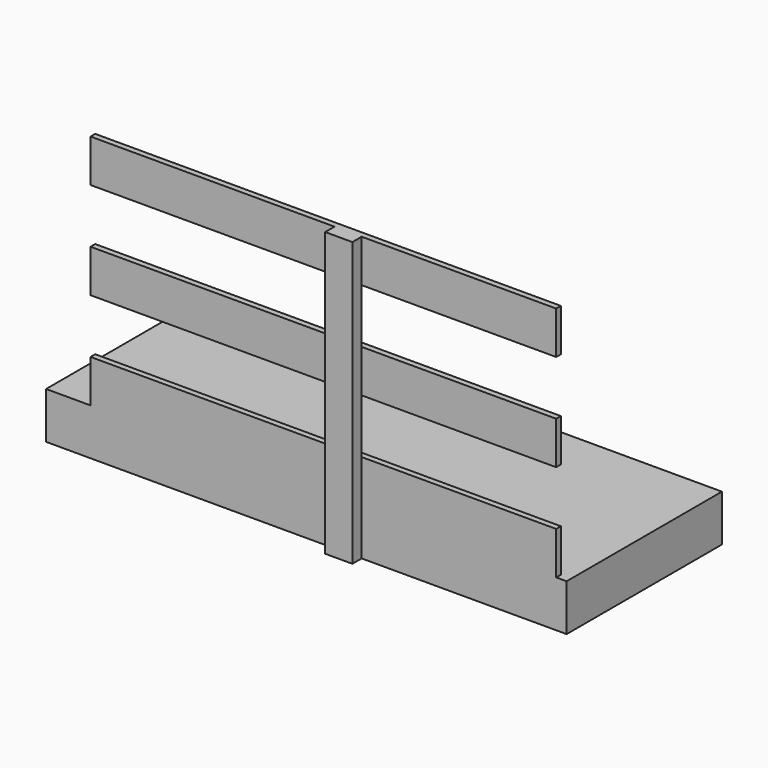
from build123d import *

# Parameters (mm, degrees)
F0_W     = 88.9
F0_H     = 927.1
F1_DEPTH = 38.1
F2_W     = 1524
F2_H     = 139.7
F3_DEPTH = 19.05
F4_W     = 1703.7423849106
F4_H     = 635.3735253215
F5_DEPTH = 152.4


with BuildPart() as f1:
    # F0 (on Front) → F1 (new body)
    with BuildSketch(Plane.XZ):
        with Locations((44.45, 463.55)):
            Rectangle(F0_W, F0_H)
    extrude(amount=F1_DEPTH)

    # F2 (on face) → F3 (join)
    with BuildSketch(Plane(origin=(0, 0, 0), x_dir=(-1, 0, 0), z_dir=(0, 1, 0))):
        with Locations((36.5120689366, 222.25)):
            Rectangle(F2_W, F2_H)
        with Locations((36.5120689366, 539.75)):
            Rectangle(F2_W, F2_H)
        with Locations((36.5120689366, 857.25)):
            Rectangle(F2_W, F2_H)
    extrude(amount=F3_DEPTH)

    # F4 (on Top) → F5 (join)
    with BuildSketch(Plane.XY):
        with Locations((-92.205286026, 317.6867626607)):
            Rectangle(F4_W, F4_H)
    extrude(amount=F5_DEPTH)


solid = f1.part
